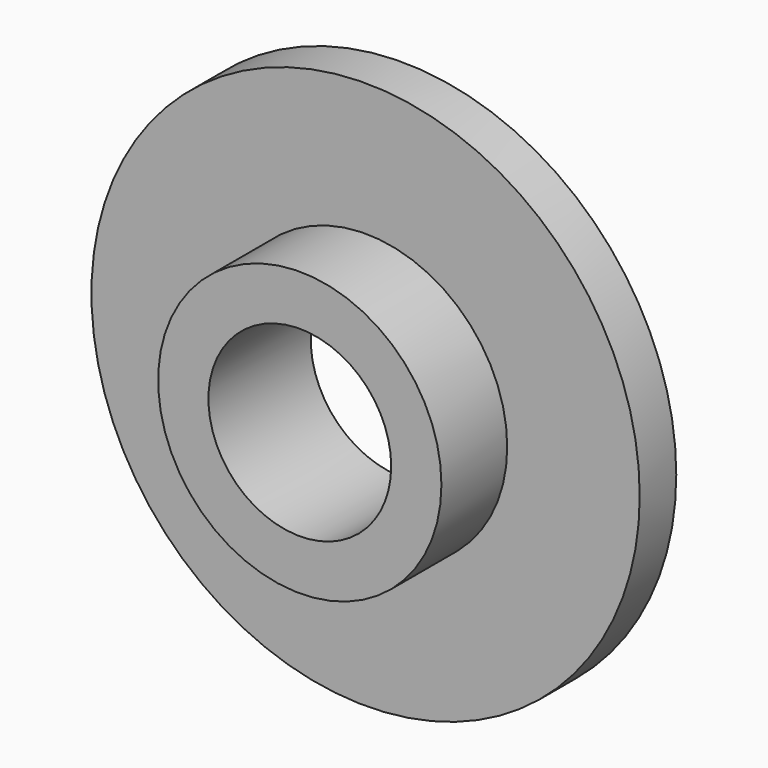
from build123d import *

# Parameters (mm, degrees)
F0_R     = 38.1
F0_R_2   = 19.685
F1_DEPTH = 6.35
F0_R_3   = 12.7
F2_DEPTH = 17.78


with BuildPart() as f1:
    # F0 (on Front) → F1 (new body)
    with BuildSketch(Plane.XZ):
        Circle(F0_R)
        Circle(F0_R_2, mode=Mode.SUBTRACT)
    extrude(amount=F1_DEPTH)


with BuildPart() as f2:
    # F0 (on Front) → F2 (new body)
    with BuildSketch(Plane.XZ):
        Circle(F0_R_2)
        Circle(F0_R_3, mode=Mode.SUBTRACT)
    extrude(amount=F2_DEPTH)


solid = Compound([f1.part, f2.part])
